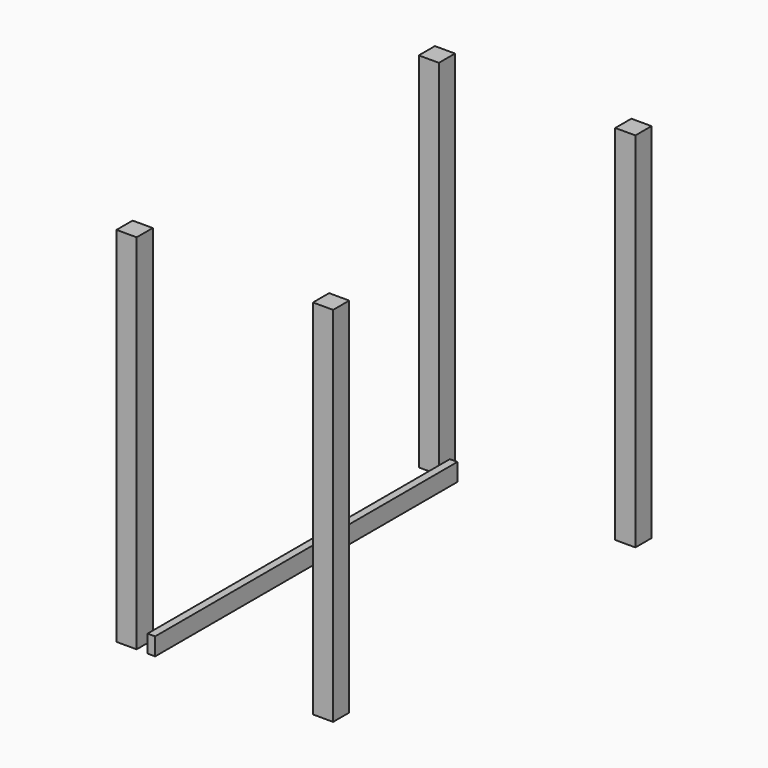
from build123d import *

# Parameters (mm, degrees)
F0_W     = 101.6
F0_H     = 101.6
F1_DEPTH = 1828.8
F8_W     = 38.1
F8_H     = 88.9
F9_DEPTH = 1905


with BuildPart() as f1:
    # F0 (on Top) → F1 (new body)
    with BuildSketch(Plane.XY):
        with Locations((50.8, 50.8)):
            Rectangle(F0_W, F0_H)
    extrude(amount=F1_DEPTH)


with BuildPart() as f2_1:
    # F2: copy of F1
    add(f1.part)


with BuildPart() as f3_1:
    # F3: copy of F1
    add(f1.part.moved(Location((990.6, 1905, 0))))


with BuildPart() as f4_1:
    # F4: copy of F1
    add(f1.part.moved(Location((990.6, 0, 0))))


with BuildPart() as f5_1:
    # F5: copy of F2_1
    add(f2_1.part.moved(Location((0, 1905, 0))))


with BuildPart() as f5_2:
    # F5: copy of F1
    add(f1.part.moved(Location((0, 1905, 0))))


with BuildPart() as f9:
    # F8 (on Front) → F9 (new body)
    with BuildSketch(Plane.XZ):
        with Locations((175.912187, 43.440078)):
            Rectangle(F8_W, F8_H)
    extrude(amount=-F9_DEPTH)


solid = Compound([f1.part, f3_1.part, f4_1.part, f5_2.part, f9.part])
